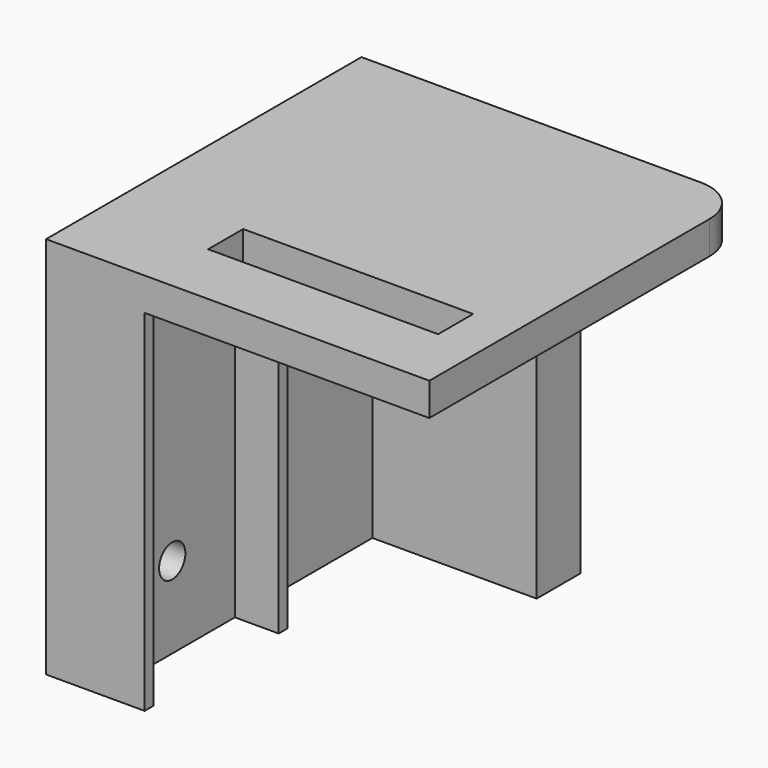
from build123d import *

# Parameters (mm, degrees)
SKETCH086_W     = 21
SKETCH086_H     = 4
PAD052_DEPTH    = 3
PAD053_DEPTH    = 32
SKETCH088_R     = 2.75
POCKET027_DEPTH = 5.001
SKETCH089_R     = 1.5
POCKET028_DEPTH = 5.001


with BuildPart() as part:
    # Sketch086 → Pad052 (new body)
    with BuildSketch(Plane.XY):
        with BuildLine():
            Line((-17.5, 18), (13.5, 18))
            ThreePointArc((17.5, 14), (16.328427, 16.828427), (13.5, 18))
            Line((17.5, 14), (17.5, -18))
            Line((17.5, -18), (-17.5, -18))
            Line((-17.5, -18), (-17.5, 18))
        make_face()
        with Locations((3, -10)):
            Rectangle(SKETCH086_W, SKETCH086_H, mode=Mode.SUBTRACT)
    extrude(amount=PAD052_DEPTH)

    # Sketch087 → Pad053 (join)
    with BuildSketch(Plane(origin=(0, 0, 0), x_dir=(-1, 0, 0), z_dir=(0, 0, -1))):
        Polygon((17.5, 18), (-2.5, 18), (-2.5, 13), (12.5, 13), (12.5, -1.7), (8.5, -1.7), (8.5, -2.7), (12.5, -2.7), (12.5, -17), (8.5, -17), (8.5, -18), (17.5, -18), align=None)
    extrude(amount=PAD053_DEPTH)

    # Sketch088 (on Face16 of Pad053) → Pocket027 (cut, through all)
    with BuildSketch(Plane.XZ.offset(-13)):
        with Locations((-7.5, -16)):
            Circle(SKETCH088_R)
    extrude(amount=-POCKET027_DEPTH, mode=Mode.SUBTRACT)

    # Sketch089 (on Face11 of Pocket027) → Pocket028 (cut, through all)
    with BuildSketch(Plane.YZ.offset(-12.5)):
        with Locations((-9.85, -24.55)):
            Circle(SKETCH089_R)
    extrude(amount=-POCKET028_DEPTH, mode=Mode.SUBTRACT)


solid = part.part
